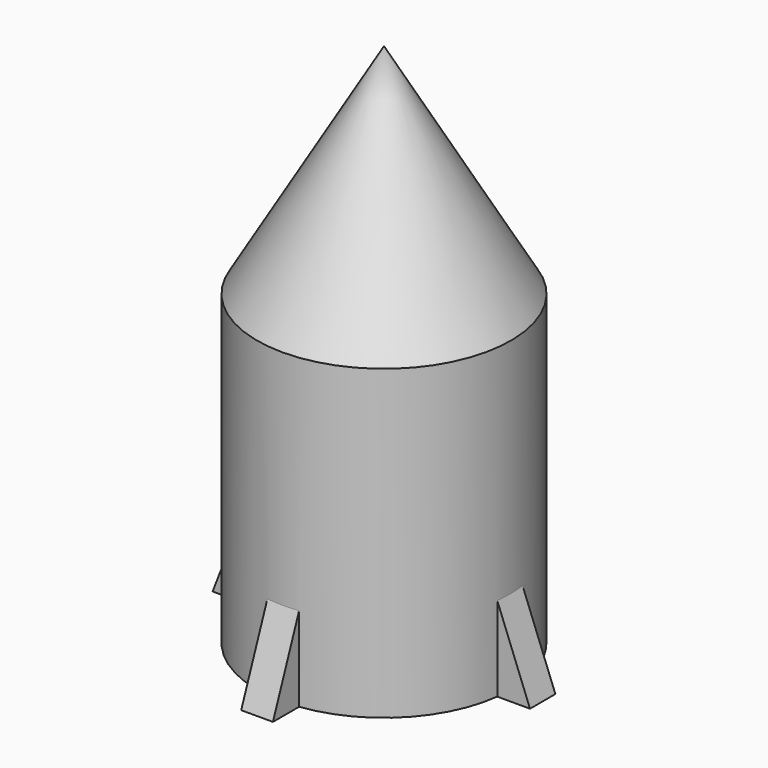
from build123d import *

# Parameters (mm, degrees)
F0_W      = 76.2
F0_H      = 184.446418
F2_R      = 52.454734
F3_DEPTH  = 76.2
F4_W      = 38.1
F4_H      = 9.525
F4_W_2    = 9.525
F4_H_2    = 38.1
F5_DEPTH  = 50.8
F7_DEPTH  = 104.776
F9_DEPTH  = 104.776
F11_DEPTH = 104.776
F13_DEPTH = 104.776


with BuildPart() as f1:
    # F0 (on Right) → F1 (revolve)
    with BuildSketch(Plane.YZ):
        Polygon((-76.2, 92.223209), (0, 92.223209), (0, 223.083655), align=None)
        with Locations((-38.1, 0)):
            Rectangle(F0_W, F0_H)
    revolve(axis=Axis((0, 0, 0), (0, 0, -1)))

    # F2 (on face) → F3 (cut)
    with BuildSketch(Plane(origin=(0, 0, -92.223209), x_dir=(1, 0, 0), z_dir=(0, 0, -1))):
        Circle(F2_R)
    extrude(amount=-F3_DEPTH, mode=Mode.SUBTRACT)

    # F4 (on face) → F5 (join)
    with BuildSketch(Plane(origin=(0, 0, -92.223209), x_dir=(1, 0, 0), z_dir=(0, 0, -1))):
        with Locations((76.2, -4.7625)):
            Rectangle(F4_W, F4_H)
        with Locations((76.2, 4.7625)):
            Rectangle(F4_W, F4_H)
        with Locations((-76.2, -4.7625)):
            Rectangle(F4_W, F4_H)
        with Locations((4.7625, 76.2)):
            Rectangle(F4_W_2, F4_H_2)
        with Locations((-4.7625, 76.2)):
            Rectangle(F4_W_2, F4_H_2)
        with Locations((76.2, -4.7625)):
            Rectangle(F4_W, F4_H)
        with Locations((76.2, 4.7625)):
            Rectangle(F4_W, F4_H)
        with Locations((-76.2, 4.7625)):
            Rectangle(F4_W, F4_H)
        with Locations((-76.2, -4.7625)):
            Rectangle(F4_W, F4_H)
        with Locations((4.7625, 76.2)):
            Rectangle(F4_W_2, F4_H_2)
        with Locations((-4.7625, 76.2)):
            Rectangle(F4_W_2, F4_H_2)
        Polygon((9.525, -57.15), (0, -57.15), (-9.525, -57.15), (-9.525, -95.25), (9.525, -95.25), align=None)
        Polygon((9.525, -57.15), (0, -57.15), (-9.525, -57.15), (-9.525, -95.25), (9.525, -95.25), align=None)
        Polygon((9.525, -57.15), (0, -57.15), (-9.525, -57.15), (-9.525, -95.25), (9.525, -95.25), align=None)
        with Locations((-76.2, 4.7625)):
            Rectangle(F4_W, F4_H)
    extrude(amount=-F5_DEPTH)

    # F6 (on face) → F7 (cut, through all)
    with BuildSketch(Plane.XZ.offset(9.525)):
        Polygon((-95.25, -41.423209), (-95.25, -92.223209), (-75.602344, -41.423209), align=None)
    extrude(amount=-F7_DEPTH, mode=Mode.SUBTRACT)

    # F8 (on face) → F9 (cut, through all)
    with BuildSketch(Plane.YZ.offset(9.525)):
        Polygon((-95.25, -41.423209), (-95.25, -92.223209), (-75.602344, -41.423209), (-85.426172, -41.423209), align=None)
    extrude(amount=-F9_DEPTH, mode=Mode.SUBTRACT)

    # F10 (on face) → F11 (cut, through all)
    with BuildSketch(Plane(origin=(-9.525, 0, 0), x_dir=(0, -1, 0), z_dir=(-1, 0, 0))):
        Polygon((-95.25, -41.423209), (-95.25, -92.223209), (-75.602344, -41.423209), align=None)
    extrude(amount=-F11_DEPTH, mode=Mode.SUBTRACT)

    # F12 (on face) → F13 (cut, through all)
    with BuildSketch(Plane(origin=(0, 9.525, 0), x_dir=(-1, 0, 0), z_dir=(0, 1, 0))):
        Polygon((-95.25, -41.423209), (-95.25, -92.223209), (-75.602344, -41.423209), align=None)
    extrude(amount=-F13_DEPTH, mode=Mode.SUBTRACT)


solid = f1.part
